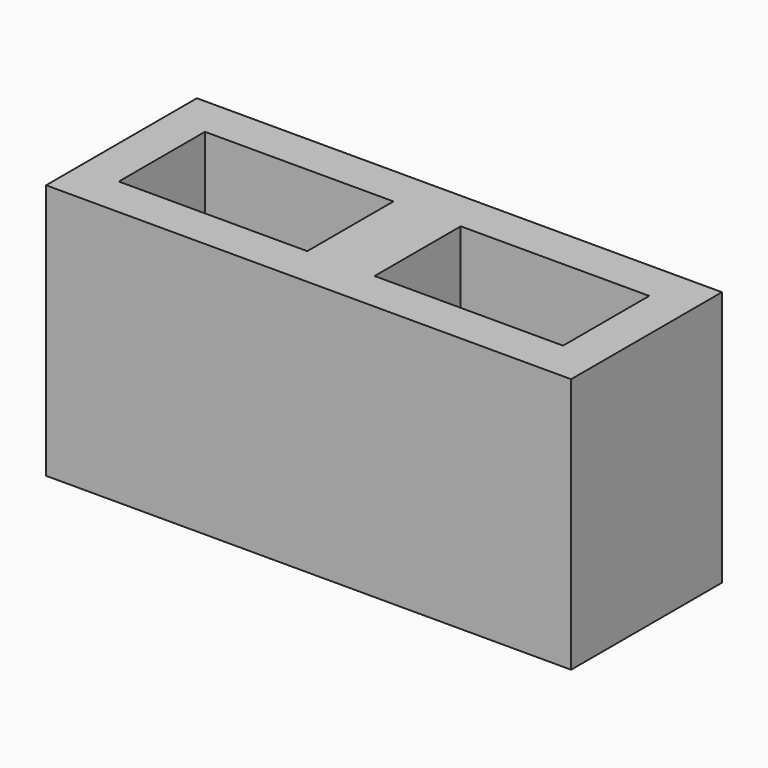
from build123d import *

# Parameters (mm, degrees)
BOX097_W     = 140
BOX097_H     = 80
BOX097_DEPTH = 190
BOX095_W     = 140
BOX095_H     = 80
BOX095_DEPTH = 190
BOX096_W     = 390
BOX096_H     = 140
BOX096_DEPTH = 190


with BuildPart() as cube069:
    # Box097 → Box097 (new body)
    with BuildSketch(Plane(origin=(220, 30, 0), x_dir=(1, 0, 0), z_dir=(0, 0, 1))):
        with Locations((70, 40)):
            Rectangle(BOX097_W, BOX097_H)
    extrude(amount=BOX097_DEPTH)


with BuildPart() as fusion015:
    # Box095 → Box095 (new body)
    with BuildSketch(Plane(origin=(30, 30, 0), x_dir=(1, 0, 0), z_dir=(0, 0, 1))):
        with Locations((70, 40)):
            Rectangle(BOX095_W, BOX095_H)
    extrude(amount=BOX095_DEPTH)

    # Fusion015: union Cube069
    add(cube069.part)


with BuildPart() as cut010:
    # Box096 → Box096 (new body)
    with BuildSketch(Plane.XY):
        with Locations((195, 70)):
            Rectangle(BOX096_W, BOX096_H)
    extrude(amount=BOX096_DEPTH)

    # Cut010: cut Fusion015
    add(fusion015.part, mode=Mode.SUBTRACT)


with BuildPart() as cut010_1:
    # Cut010 placement: moved
    add(cut010.part.moved(Location((430, 445, -590))))


solid = cut010_1.part
